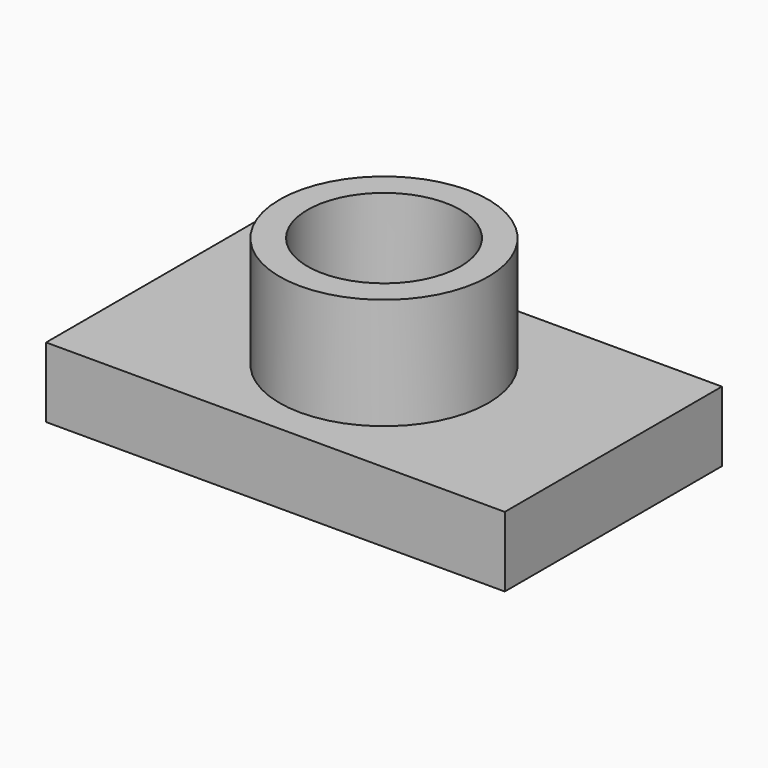
from build123d import *

# Parameters (mm, degrees)
F0_W      = 104.71709
F0_H      = 61.959744
F1_DEPTH  = 16.002
F2_R      = 23.822659
F2_R_2    = 17.472659
F3_DEPTH  = 25.4
F3_FACE_R = 17.472659
F4_DEPTH  = 25.4


with BuildPart() as f1:
    # F0 (on Top) → F1 (new body)
    with BuildSketch(Plane.XY):
        Rectangle(F0_W, F0_H)
    extrude(amount=F1_DEPTH)

    # F2 (on face) → F3 (join)
    with BuildSketch(Plane.XY.offset(16.002)):
        Circle(F2_R)
        Circle(F2_R_2, mode=Mode.SUBTRACT)
    extrude(amount=F3_DEPTH)

    # F3_face (on face) → F4 (cut)
    with BuildSketch(Plane.XY.offset(16.002)):
        Circle(F3_FACE_R)
    extrude(amount=-F4_DEPTH, mode=Mode.SUBTRACT)


solid = f1.part
